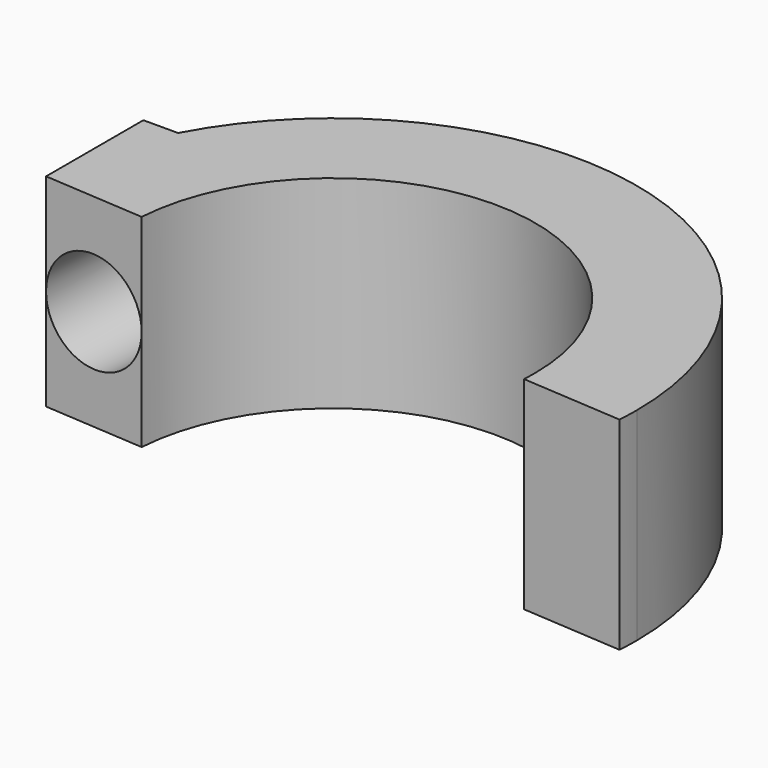
from build123d import *

# Parameters (mm, degrees)
F1_DEPTH = 12.7
F3_DEPTH = 6.35


with BuildPart() as f1:
    # F0 (on Top) → F1 (new body)
    with BuildSketch(Plane.XY):
        with BuildLine():
            Line((-19.0055783398, 41.7074999772), (-25.3555783398, 41.7074999772))
            Line((-25.3555783398, 41.7074999772), (-19.0203855599, 41.2741035754))
            ThreePointArc((-19.0203855599, 41.2741035754), (-5.9163507237, 53.0999050026), (6.35, 40.4073107719))
            ThreePointArc((6.35, 40.4073107719), (6.3425942307, 39.9736614957), (6.3203855599, 39.5405179684))
            Line((6.3203855599, 39.5405179684), (12.6555783398, 39.1071215667))
            ThreePointArc((12.6555783398, 39.1071215667), (12.688891346, 39.7568368575), (12.7, 40.4073107719))
            ThreePointArc((12.7, 40.4073107719), (-1.7541560784, 58.8946231415), (-23.1824901468, 49.3274999772))
            Line((-23.1824901468, 49.3274999772), (-19.0055783398, 49.3274999772))
            Line((-19.0055783398, 49.3274999772), (-19.0055783398, 41.7074999772))
        make_face()
        with BuildLine():
            ThreePointArc((-23.1824901468, 49.3274999772), (-24.6696039317, 45.6317353132), (-25.3555783398, 41.7074999772))
            Line((-25.3555783398, 41.7074999772), (-19.0055783398, 41.7074999772))
            Line((-19.0055783398, 41.7074999772), (-19.0055783398, 49.3274999772))
            Line((-19.0055783398, 49.3274999772), (-23.1824901468, 49.3274999772))
        make_face()
        with BuildLine():
            Line((-25.3555783398, 49.3274999772), (-25.3555783398, 41.7074999772))
            ThreePointArc((-25.3555783398, 41.7074999772), (-24.6696039317, 45.6317353132), (-23.1824901468, 49.3274999772))
            Line((-23.1824901468, 49.3274999772), (-25.3555783398, 49.3274999772))
        make_face()
    extrude(amount=F1_DEPTH)

    # F2 (on face) → F3 (cut)
    with BuildSketch(Plane(origin=(2.7218447995, 39.7866974726, 0), x_dir=(0.9976681543, -0.0682514019, 0), z_dir=(-0.0682514019, -0.9976681543, 0))):
        with BuildLine():
            ThreePointArc((-21.7930483851, 6.35), (-24.9680483851, 9.525), (-28.1430483851, 6.35))
            ThreePointArc((-28.1430483851, 6.35), (-24.9680483851, 3.175), (-21.7930483851, 6.35))
        make_face()
    extrude(amount=-F3_DEPTH, mode=Mode.SUBTRACT)


solid = f1.part
